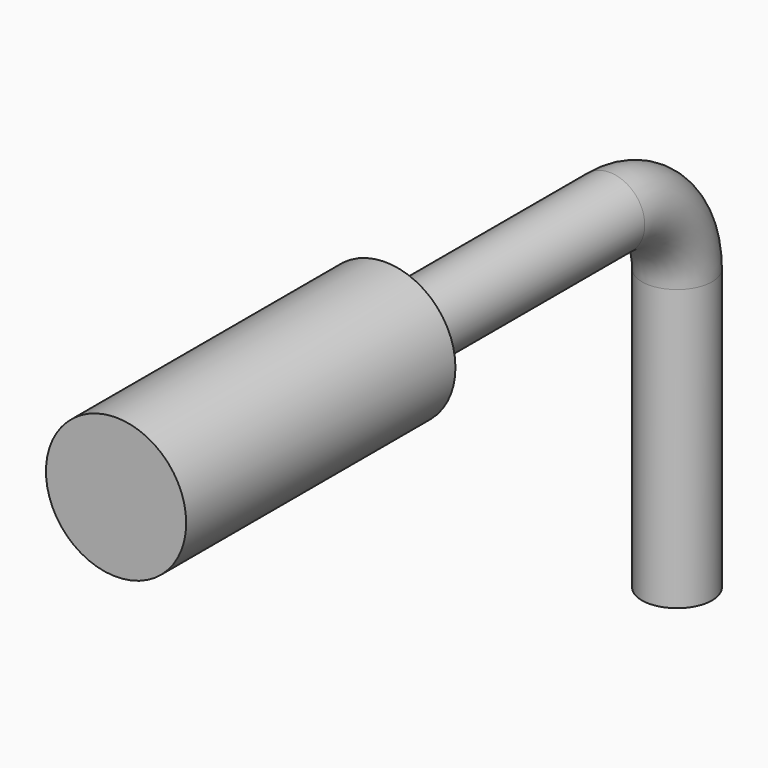
from build123d import *

# Parameters (mm, degrees)
F0_R     = 2.5
F1_DEPTH = 12
F3_R     = 1.25


with BuildPart() as f1:
    # F0 (on Front) → F1 (new body)
    with BuildSketch(Plane.XZ):
        Circle(F0_R)
    extrude(amount=-F1_DEPTH)

    # F4: sweep along a path in F2
    with BuildLine(Plane.YZ) as f4_path:
        Line((12, 0), (22, 0))
        ThreePointArc((22, 0), (24.1213203436, -0.8786796564), (25, -3))
        Line((25, -3), (25, -13))
    # F3 (on face) → F4 (sweep)
    with BuildSketch(Plane(origin=(0, 12, 0), x_dir=(-1, 0, 0), z_dir=(0, 1, 0))):
        Circle(F3_R)
    sweep(path=f4_path.line)


solid = f1.part
